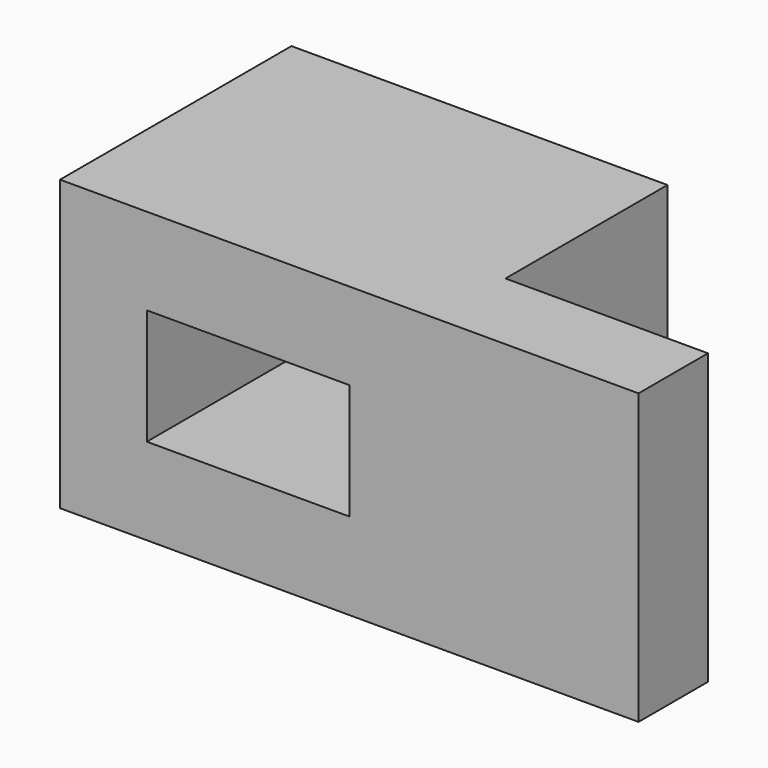
from build123d import *

# Parameters (mm, degrees)
F0_W     = 127
F0_H     = 63.5
F1_DEPTH = 63.5
F2_W     = 44.45
F2_H     = 25.4
F3_DEPTH = 63.501
F4_W     = 44.45
F4_H     = 44.45
F5_DEPTH = 63.501


with BuildPart() as f1:
    # F0 (on Front) → F1 (new body)
    with BuildSketch(Plane.XZ):
        with Locations((63.5, -31.75)):
            Rectangle(F0_W, F0_H)
    extrude(amount=F1_DEPTH)

    # F2 (on face) → F3 (cut, through all)
    with BuildSketch(Plane.XZ.offset(63.5)):
        with Locations((41.275, -31.75)):
            Rectangle(F2_W, F2_H)
    extrude(amount=-F3_DEPTH, mode=Mode.SUBTRACT)

    # F4 (on face) → F5 (cut, through all)
    with BuildSketch(Plane.XY):
        with Locations((104.775, -22.225)):
            Rectangle(F4_W, F4_H)
    extrude(amount=-F5_DEPTH, mode=Mode.SUBTRACT)


solid = f1.part
